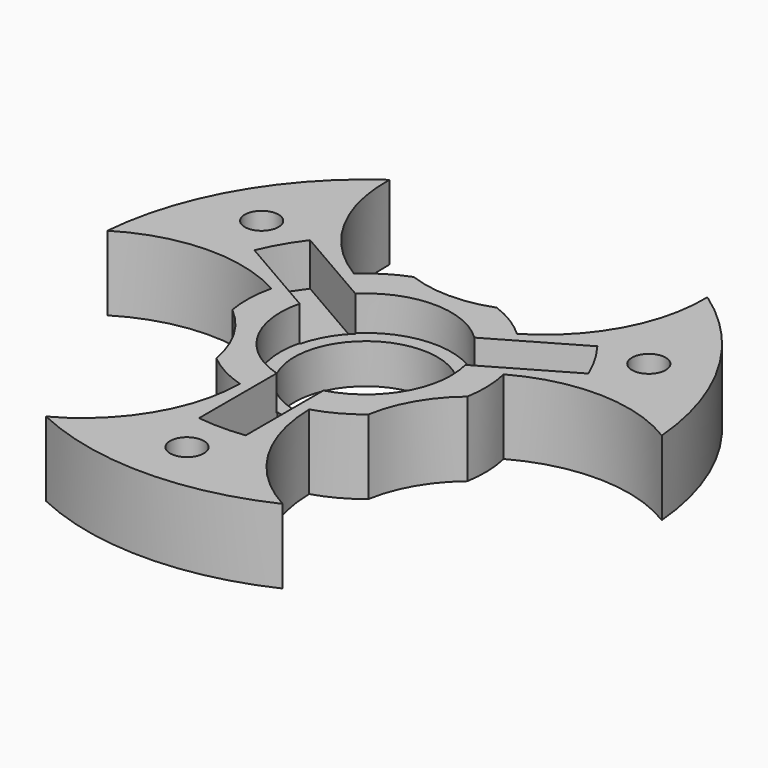
from build123d import *

# Parameters (mm, degrees)
SKETCH_R              = 28
SKETCH_R_2            = 7.2
PAD_DEPTH             = 7.5
POCKET_DEPTH          = 166.601597
POLARPATTERN_COUNT    = 3
SKETCH003_R           = 1.7
POCKET001_DEPTH       = 7.501
SKETCH007_R           = 8.6
POCKET005_DEPTH       = 3.5
POCKET006_DEPTH       = 4.3
POLARPATTERN001_COUNT = 3
POCKET007_DEPTH       = 2.3
POLARPATTERN002_COUNT = 3


with BuildPart() as part:
    # Sketch → Pad (new body)
    with BuildSketch(Plane.XY.offset(25)):
        Circle(SKETCH_R)
        Circle(SKETCH_R_2, mode=Mode.SUBTRACT)
    extrude(amount=PAD_DEPTH)

    # Sketch002 → Pocket (cut, through all)
    with BuildSketch(Plane.XY.offset(32.5)):
        with BuildLine():
            ThreePointArc((-4.175823, 11.25), (0, 10.5), (4.175823, 11.25))
            ThreePointArc((8.200179, 8.761111), (6.311893, 10.205881), (4.175823, 11.25))
            ThreePointArc((8.200179, 8.761111), (0, 38.5), (-8.200179, 8.761111))
            ThreePointArc((-4.175823, 11.25), (-6.311893, 10.205881), (-8.200179, 8.761111))
        make_face()
    pocket = extrude(amount=-POCKET_DEPTH, mode=Mode.SUBTRACT)

    # PolarPattern: Pocket ×3 about axis
    polarpattern_axis = Axis((0, 0, 32.5), (0, 0, 1))
    for i in range(1, POLARPATTERN_COUNT):
        add(pocket.rotate(polarpattern_axis, i * 360 / POLARPATTERN_COUNT), mode=Mode.SUBTRACT)

    # Sketch003 → Pocket001 (cut, through all)
    with BuildSketch(Plane.XY.offset(32.5)):
        with Locations((0, 22.5)):
            Circle(SKETCH003_R)
        with Locations((-19.485572, -11.25)):
            Circle(SKETCH003_R)
        with Locations((19.485572, -11.25)):
            Circle(SKETCH003_R)
        with Locations((-19.485572, 11.25)):
            Circle(SKETCH003_R)
        with Locations((19.485572, 11.25)):
            Circle(SKETCH003_R)
        with Locations((0, -22.5)):
            Circle(SKETCH003_R)
    extrude(amount=-POCKET001_DEPTH, mode=Mode.SUBTRACT)

    # Sketch007 → Pocket005 (cut)
    with BuildSketch(Plane.XY.offset(32.5)):
        Circle(SKETCH007_R)
    extrude(amount=-POCKET005_DEPTH, mode=Mode.SUBTRACT)

    # Sketch005 → Pocket006 (cut)
    with BuildSketch(Plane.XY.offset(32.5)):
        with BuildLine():
            Line((-2.35, -8.16869), (-2.35, -18.047645))
            ThreePointArc((-2.35, -18.047645), (0, -18.2), (2.35, -18.047645))
            Line((2.35, -8.16869), (2.35, -18.047645))
            ThreePointArc((-2.35, -8.16869), (0, -8.5), (2.35, -8.16869))
        make_face()
    pocket006 = extrude(amount=-POCKET006_DEPTH, mode=Mode.SUBTRACT)

    # PolarPattern001: Pocket006 ×3 about axis
    polarpattern001_axis = Axis((0, 0, 32.5), (0, 0, 1))
    for i in range(1, POLARPATTERN001_COUNT):
        add(pocket006.rotate(polarpattern001_axis, i * 360 / POLARPATTERN001_COUNT), mode=Mode.SUBTRACT)

    # Sketch009 → Pocket007 (cut)
    with BuildSketch(Plane(origin=(0, 0, 25), x_dir=(1, 0, 0), z_dir=(0, 0, -1))):
        with BuildLine():
            Line((2.35, 12.785832), (2.35, 17.946796))
            ThreePointArc((2.35, 17.946796), (0, 18.1), (-2.35, 17.946796))
            Line((-2.35, 12.785832), (-2.35, 17.946796))
            ThreePointArc((2.35, 12.785832), (0, 13), (-2.35, 12.785832))
        make_face()
    pocket007 = extrude(amount=-POCKET007_DEPTH, mode=Mode.SUBTRACT)

    # PolarPattern002: Pocket007 ×3 about axis
    polarpattern002_axis = Axis((0, 0, 25), (0, 0, -1))
    for i in range(1, POLARPATTERN002_COUNT):
        add(pocket007.rotate(polarpattern002_axis, i * 360 / POLARPATTERN002_COUNT), mode=Mode.SUBTRACT)


solid = part.part
